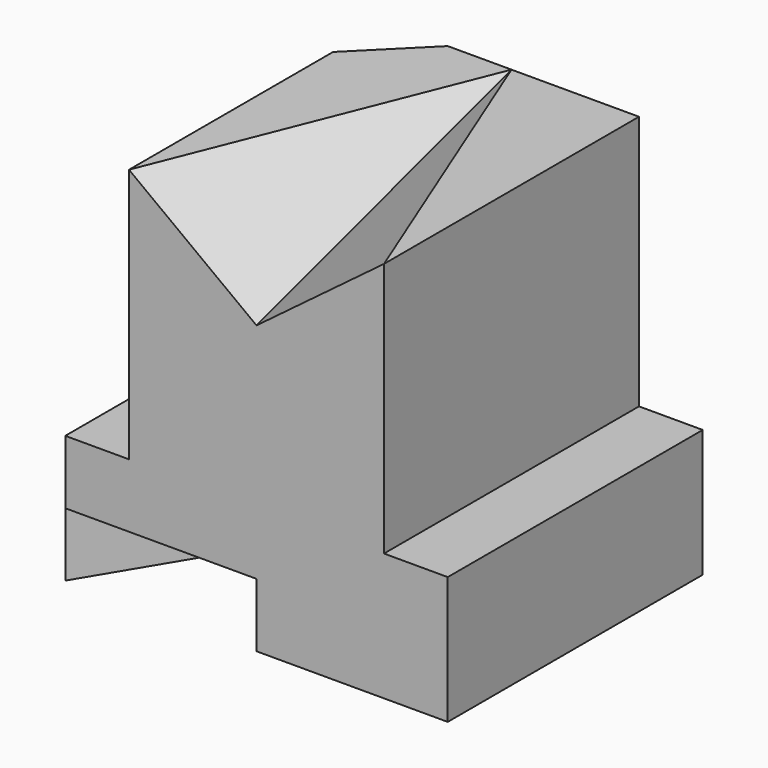
from build123d import *

# Parameters (mm, degrees)
F0_W     = 60
F0_H     = 50
F1_DEPTH = 20
F2_W     = 40
F2_H     = 50
F3_DEPTH = 40
F5_DEPTH = 10
F7_DEPTH = 40


with BuildPart() as f1:
    # F0 (on Top) → F1 (new body)
    with BuildSketch(Plane.XY):
        with Locations((30, 25)):
            Rectangle(F0_W, F0_H)
    extrude(amount=F1_DEPTH)

    # F2 (on face) → F3 (join)
    with BuildSketch(Plane.XY.offset(20)):
        with Locations((30, 25)):
            Rectangle(F2_W, F2_H)
    extrude(amount=F3_DEPTH)

    # F4 (on face) → F5 (cut)
    with BuildSketch(Plane(origin=(0, 0, 0), x_dir=(1, 0, 0), z_dir=(0, 0, -1))):
        Polygon((30, 0), (0, 0), (30, -50), (60, -50), align=None)
    extrude(amount=-F5_DEPTH, mode=Mode.SUBTRACT)

    # F6 (on face) → F7 (cut)
    with BuildSketch(Plane.XY.offset(60)):
        Polygon((20, 50), (10, 50), (10, 40), align=None)
    extrude(amount=-F7_DEPTH, mode=Mode.SUBTRACT)

    # F12: sweep along a path in F11
    with BuildLine(Plane(origin=(30, 0, 0), x_dir=(0, -1, 0), z_dir=(-1, 0, 0))) as f12_path:
        Line((0, 45), (-50, 60))
    # F8 (on face) → F12 (sweep, cut)
    with BuildSketch(Plane.XY.offset(60)):
        Polygon((30, 50), (10, 0), (30, 0), align=None)
        Polygon((30, 50), (30, 0), (50, 0), align=None)
    sweep(path=f12_path.line, mode=Mode.SUBTRACT)


solid = f1.part
